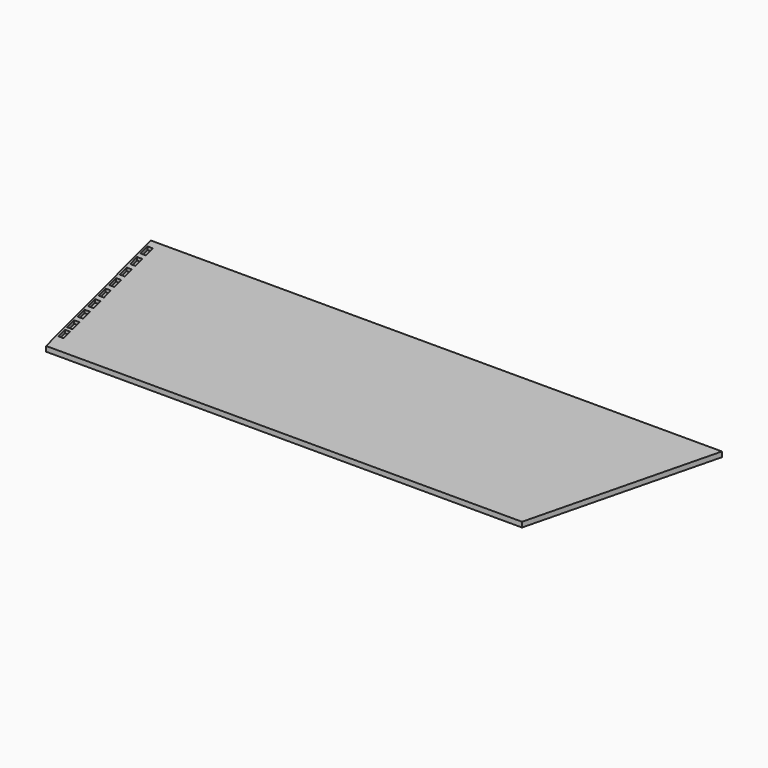
from build123d import *

# Parameters (mm, degrees)
F1_DEPTH = 8
F3_DEPTH = 5


with BuildPart() as f1:
    # F0 (on Top) → F1 (new body)
    with BuildSketch(Plane.XY):
        Polygon((-488.9687001705, 205.9708833694), (-413.9687001705, -94.0291166306), (336.0312998295, -94.0291166306), (411.0312998295, 205.9708833694), (-38.9687001705, 205.9708833694), align=None)
    extrude(amount=F1_DEPTH)

    # F2 (on face) → F3 (cut)
    with BuildSketch(Plane.XY.offset(8)):
        Polygon((-468.9156152208, 171.1022525627), (-473.9156152208, 191.1022525627), (-482.2515424688, 191.1022525627), (-477.2515424688, 171.1022525627), align=None)
        Polygon((-461.4156152208, 141.1022525627), (-466.4156152208, 161.1022525627), (-474.7515424688, 161.1022525627), (-469.7515424688, 141.1022525627), align=None)
        Polygon((-453.9156152208, 111.1022525627), (-458.9156152208, 131.1022525627), (-467.2515424688, 131.1022525627), (-462.2515424688, 111.1022525627), align=None)
        Polygon((-459.7515424688, 101.1022525627), (-454.7515424688, 81.1022525627), (-446.4156152208, 81.1022525627), (-451.4156152208, 101.1022525627), align=None)
        Polygon((-452.2515424688, 71.1022525627), (-447.2515424688, 51.1022525627), (-438.9156152208, 51.1022525627), (-443.9156152208, 71.1022525627), align=None)
        Polygon((-444.7515424688, 41.1022525627), (-439.7515424688, 21.1022525627), (-431.4156152208, 21.1022525627), (-436.4156152208, 41.1022525627), align=None)
        Polygon((-437.2515424688, 11.1022525627), (-432.2515424688, -8.8977474373), (-423.9156152208, -8.8977474373), (-428.9156152208, 11.1022525627), align=None)
        Polygon((-429.7515424688, -18.8977474373), (-424.7515424688, -38.8977474373), (-416.4156152208, -38.8977474373), (-421.4156152208, -18.8977474373), align=None)
        Polygon((-423.0365266679, -45.7578106412), (-418.3194126712, -64.6262666276), (-409.9834854232, -64.6262666276), (-414.6704303613, -45.8784868752), align=None)
    extrude(amount=-F3_DEPTH, mode=Mode.SUBTRACT)


solid = f1.part
